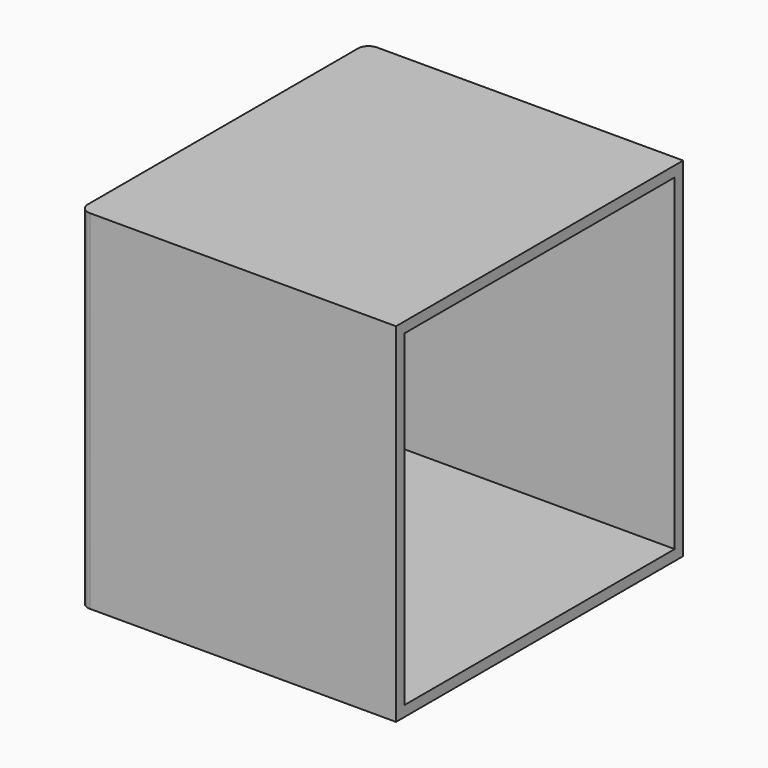
from build123d import *

# Parameters (mm, degrees)
F0_R     = 7
F1_DEPTH = 6.35
F2_DEPTH = 203.2
F3_R     = 4.5
F4_DEPTH = 6.351
F3_R_2   = 2.75
F3_R_3   = 30
F5_DEPTH = 6.351
F7_DEPTH = 6.35


with BuildPart() as f1:
    # F0 (on Top) → F1 (new body)
    with BuildSketch(Plane.XY):
        with BuildLine():
            Line((-82.55, -101.6), (95.25, -101.6))
            Line((95.25, -101.6), (95.25, 101.6))
            Line((95.25, 101.6), (-82.55, 101.6))
            ThreePointArc((-82.55, 101.6), (-87.0401280605, 99.7401280605), (-88.9, 95.25))
            Line((-88.9, 95.25), (-88.9, -95.25))
            ThreePointArc((-88.9, -95.25), (-87.0401280605, -99.7401280605), (-82.55, -101.6))
        make_face()
        Circle(F0_R, mode=Mode.SUBTRACT)
    extrude(amount=F1_DEPTH)

    # F0 (on Top) → F2 (join)
    with BuildSketch(Plane.XY):
        with BuildLine():
            Line((-88.9, -107.95), (95.25, -107.95))
            Line((95.25, -107.95), (95.25, -101.6))
            Line((95.25, -101.6), (-82.55, -101.6))
            ThreePointArc((-82.55, -101.6), (-87.0401280605, -99.7401280605), (-88.9, -95.25))
            Line((-88.9, -95.25), (-88.9, 95.25))
            ThreePointArc((-88.9, 95.25), (-87.0401280605, 99.7401280605), (-82.55, 101.6))
            Line((-82.55, 101.6), (95.25, 101.6))
            Line((95.25, 101.6), (95.25, 107.95))
            Line((95.25, 107.95), (-88.9, 107.95))
            ThreePointArc((-88.9, 107.95), (-93.3901280605, 106.0901280605), (-95.25, 101.6))
            Line((-95.25, 101.6), (-95.25, -101.6))
            ThreePointArc((-95.25, -101.6), (-93.3901280605, -106.0901280605), (-88.9, -107.95))
        make_face()
    extrude(amount=F2_DEPTH)

    # F3 (on face) → F4 (cut, through all)
    with BuildSketch(Plane.YZ.offset(-88.9)):
        with Locations((60.8142944519, 40.7813113481)):
            Circle(F3_R)
        with Locations((32.9124589905, 22.1379009341)):
            Circle(F3_R)
        with Locations((0, 15.5912058)):
            Circle(F3_R)
        with Locations((-32.9124589905, 22.1379009341)):
            Circle(F3_R)
        with Locations((-79.4577048659, 68.6831468095)):
            Circle(F3_R)
        with Locations((-86.0044, 101.5956058)):
            Circle(F3_R)
        with Locations((-79.4577048659, 134.5080647905)):
            Circle(F3_R)
        with Locations((-60.8142944519, 162.4099002519)):
            Circle(F3_R)
        with Locations((-32.9124589905, 181.0533106659)):
            Circle(F3_R)
        with Locations((0, 187.6000058)):
            Circle(F3_R)
        with Locations((32.9124589905, 181.0533106659)):
            Circle(F3_R)
        with Locations((60.8142944519, 162.4099002519)):
            Circle(F3_R)
        with Locations((79.4577048659, 134.5080647905)):
            Circle(F3_R)
        with Locations((86.0044, 101.5956058)):
            Circle(F3_R)
        with Locations((79.4577048659, 68.6831468095)):
            Circle(F3_R)
    extrude(amount=-F4_DEPTH, mode=Mode.SUBTRACT)

    # F3 (on face) → F5 (cut, through all)
    with BuildSketch(Plane.YZ.offset(-88.9)):
        with Locations((-60.8142944519, 40.7813113481)):
            Circle(F3_R)
        with Locations((-34.8, 66.8)):
            Circle(F3_R_2)
        with Locations((34.8, 66.8)):
            Circle(F3_R_2)
        with Locations((34.8, 136.4)):
            Circle(F3_R_2)
        with Locations((-34.8, 136.4)):
            Circle(F3_R_2)
        with Locations((0, 101.6)):
            Circle(F3_R_3)
    extrude(amount=-F5_DEPTH, mode=Mode.SUBTRACT)

    # F6 (on face) → F7 (join)
    with BuildSketch(Plane.XY.offset(203.2)):
        with BuildLine():
            Line((95.25, -101.6), (95.25, 101.6))
            Line((95.25, 101.6), (-82.55, 101.6))
            ThreePointArc((-82.55, 101.6), (-87.0401280605, 99.7401280605), (-88.9, 95.25))
            Line((-88.9, 95.25), (-88.9, -95.25))
            ThreePointArc((-88.9, -95.25), (-87.0401280605, -99.7401280605), (-82.55, -101.6))
            Line((-82.55, -101.6), (95.25, -101.6))
        make_face()
        with BuildLine():
            Line((95.25, 107.95), (-88.9, 107.95))
            ThreePointArc((-88.9, 107.95), (-93.3901280605, 106.0901280605), (-95.25, 101.6))
            Line((-95.25, 101.6), (-95.25, -101.6))
            ThreePointArc((-95.25, -101.6), (-93.3901280605, -106.0901280605), (-88.9, -107.95))
            Line((-88.9, -107.95), (95.25, -107.95))
            Line((95.25, -107.95), (95.25, -101.6))
            Line((95.25, -101.6), (-82.55, -101.6))
            ThreePointArc((-82.55, -101.6), (-87.0401280605, -99.7401280605), (-88.9, -95.25))
            Line((-88.9, -95.25), (-88.9, 95.25))
            ThreePointArc((-88.9, 95.25), (-87.0401280605, 99.7401280605), (-82.55, 101.6))
            Line((-82.55, 101.6), (95.25, 101.6))
            Line((95.25, 101.6), (95.25, 107.95))
        make_face()
    extrude(amount=F7_DEPTH)


solid = f1.part
